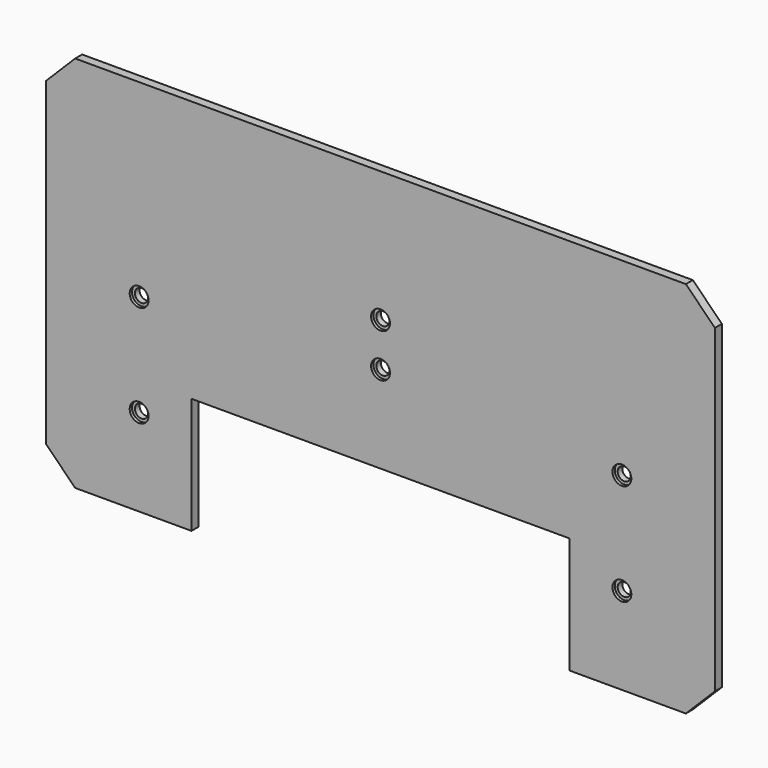
from build123d import *

# Parameters (mm, degrees)
F0_R     = 2.25
F1_DEPTH = 3
F2_SIZE  = 10
F3_R     = 3.25
F4_DEPTH = 1


with BuildPart() as f1:
    # F0 (on Front) → F1 (new body)
    with BuildSketch(Plane.XZ):
        Polygon((115, 65), (-115, 65), (-115, -65), (-65, -65), (-65, -25), (0, -25), (65, -25), (65, -65), (115, -65), align=None)
        with Locations((-83, -35)):
            Circle(F0_R, mode=Mode.SUBTRACT)
        with Locations((83, -35)):
            Circle(F0_R, mode=Mode.SUBTRACT)
        with Locations((-83, 0)):
            Circle(F0_R, mode=Mode.SUBTRACT)
        with Locations((0, 5)):
            Circle(F0_R, mode=Mode.SUBTRACT)
        with Locations((0, 20)):
            Circle(F0_R, mode=Mode.SUBTRACT)
        with Locations((83, 0)):
            Circle(F0_R, mode=Mode.SUBTRACT)
    extrude(amount=F1_DEPTH)

    # F2
    f2_edges = [f1.edges().sort_by_distance(p)[0] for p in [
        (-115, -1.5, 65),
        (115, -1.5, 65),
        (115, -1.5, -65),
        (-115, -1.5, -65),
    ]]
    chamfer(f2_edges, length=F2_SIZE)

    # F3 (on face) → F4 (cut)
    with BuildSketch(Plane.XZ.offset(3)):
        with Locations((-83, 0)):
            Circle(F3_R)
        with Locations((-83, -35)):
            Circle(F3_R)
        with Locations((0, 20)):
            Circle(F3_R)
        with Locations((0, 5)):
            Circle(F3_R)
        with Locations((83, 0)):
            Circle(F3_R)
        with Locations((83, -35)):
            Circle(F3_R)
    extrude(amount=-F4_DEPTH, mode=Mode.SUBTRACT)


solid = f1.part
